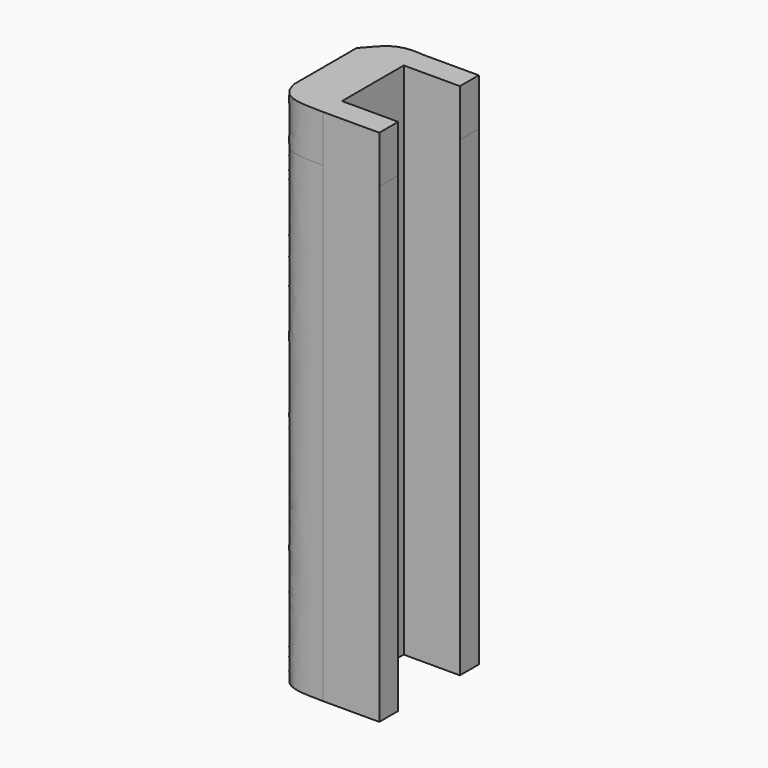
from build123d import *

# Parameters (mm, degrees)
F0_W     = 30.243722
F0_H     = 12.7
F1_DEPTH = 254
F2_DEPTH = 25.4


with BuildPart() as f1:
    # F0 (on Top) → F1 (new body)
    with BuildSketch(Plane.XY):
        with BuildLine():
            add(Edge.make_bspline(
                [(-7.819359, 19.657847), (0, 28.573312), (3.134033, 33.92129), (17.580641, 32.357847)],
                knots=[0, 0, 0, 0, 28.398063, 28.398063, 28.398063, 28.398063], degree=3))
            Line((-7.819359, 19.657847), (17.580641, 19.657847))
            Line((17.580641, 19.657847), (17.580641, 32.357847))
        make_face()
        Polygon((17.580641, 19.657847), (-7.819359, 19.657847), (-7.819359, -21.92727), (17.580641, -21.92727), (17.580641, -16.079364), align=None)
        with Locations((32.702502, 26.007847)):
            Rectangle(F0_W, F0_H)
        with BuildLine():
            Line((17.580641, -21.92727), (-7.819359, -21.92727))
            add(Edge.make_bspline(
                [(-7.819359, -21.92727), (-5.692848, -35.277039), (4.585292, -34.272849), (17.580641, -34.62727)],
                knots=[0, 0, 0, 0, 28.398063, 28.398063, 28.398063, 28.398063], degree=3))
            Line((17.580641, -34.62727), (17.580641, -21.92727))
        make_face()
        with Locations((32.702502, -28.27727)):
            Rectangle(F0_W, F0_H)
    extrude(amount=F1_DEPTH)

    # F1_face (on face) → F2 (join)
    with BuildSketch(Plane(origin=(14.443133, -1.495159, 254), x_dir=(1, 0, 0), z_dir=(0, 0, 1))):
        with BuildLine():
            add(Edge.make_bspline(
                [(-22.262492, 21.153006), (-14.443133, 30.068472), (-11.3091, 35.416449), (3.137508, 33.853006)],
                knots=[0, 0, 0, 0, 28.398063, 28.398063, 28.398063, 28.398063], degree=3))
            Line((-22.262492, 21.153006), (-22.262492, -20.432111))
            add(Edge.make_bspline(
                [(-22.262492, -20.432111), (-20.135981, -33.781879), (-9.857842, -32.77769), (3.137508, -33.132111)],
                knots=[0, 0, 0, 0, 28.398063, 28.398063, 28.398063, 28.398063], degree=3))
            Line((3.137508, -33.132111), (33.381229, -33.132111))
            Line((33.381229, -33.132111), (33.381229, -20.432111))
            Line((33.381229, -20.432111), (3.137508, -20.432111))
            Line((3.137508, -20.432111), (3.137508, 21.153006))
            Line((3.137508, 21.153006), (33.381229, 21.153006))
            Line((33.381229, 21.153006), (33.381229, 33.853006))
            Line((33.381229, 33.853006), (3.137508, 33.853006))
        make_face()
    extrude(amount=F2_DEPTH)


solid = f1.part
